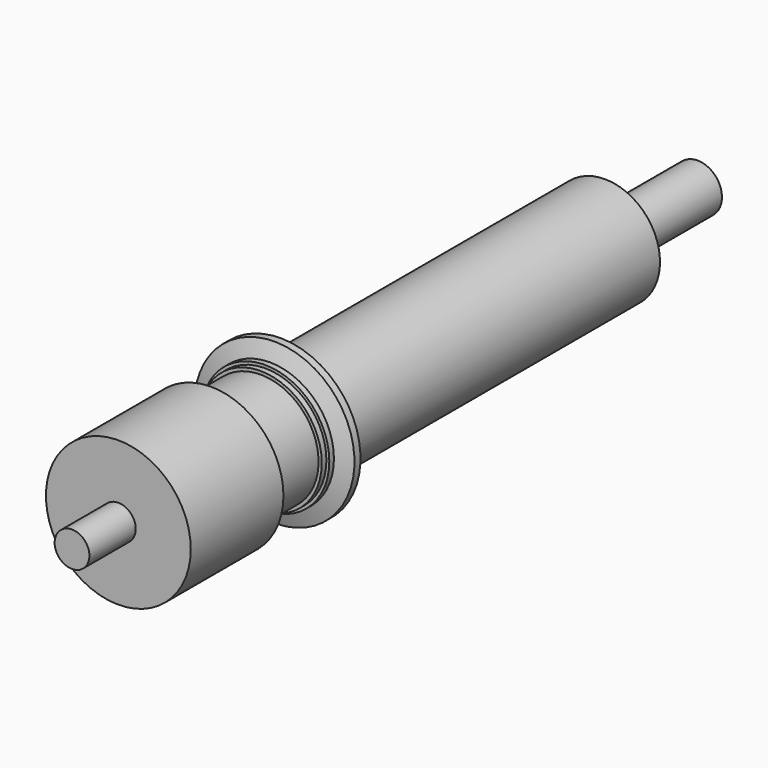
from build123d import *

# Parameters (mm, degrees)
F1_R      = 6.35
F2_DEPTH  = 5.842
F3_R      = 6.35
F4_DEPTH  = 2.54
F5_R      = 31.75
F5_R_2    = 6.35
F6_DEPTH  = 50.8
F7_R      = 7.62
F7_R_2    = 6.35
F8_DEPTH  = 25.4
F9_R      = 6.35
F12_R     = 25.4
F13_DEPTH = 38.1
F14_R     = 35.052
F14_R_2   = 22.86
F15_DEPTH = 5.842
F16_SIZE2 = 6.9785926454
F16_SIZE  = 2.54
F17_R     = 28.0734073546
F17_R_2   = 24.13
F18_DEPTH = 2.54
F19_R     = 26.8034073546
F19_R_2   = 24.13
F20_DEPTH = 2.54
F21_R     = 24.1300254
F21_R_2   = 10.16
F22_DEPTH = 177.8
F23_R     = 10.668
F23_R_2   = 7.874
F24_DEPTH = 50.8


with BuildPart() as f2:
    # F1 (on Front) → F2 (new body)
    with BuildSketch(Plane.XZ):
        Circle(F1_R)
    extrude(amount=-F2_DEPTH)

    # F3 (on face) → F4 (join)
    with BuildSketch(Plane(origin=(0, 5.842, 0), x_dir=(-1, 0, 0), z_dir=(0, 1, 0))):
        Circle(F3_R)
    extrude(amount=F4_DEPTH)

    # F5 (on face) → F6 (join)
    with BuildSketch(Plane.XZ):
        Circle(F5_R)
        Circle(F5_R_2, mode=Mode.SUBTRACT)
    extrude(amount=F6_DEPTH)

    # F7 (on face) → F8 (join)
    with BuildSketch(Plane.XZ.offset(50.8)):
        Circle(F7_R)
        Circle(F7_R_2, mode=Mode.SUBTRACT)
    extrude(amount=F8_DEPTH)

    # F11: sweep along a path in F10
    with BuildLine(Plane.YZ) as f11_path:
        Line((-76.2, 0), (-25.4, 0))
    # F9 (on face) → F11 (sweep)
    with BuildSketch(Plane.XZ.offset(76.2)):
        Circle(F9_R)
    sweep(path=f11_path.line)

    # F12 (on face) → F13 (join)
    with BuildSketch(Plane(origin=(0, 0, 0), x_dir=(-1, 0, 0), z_dir=(0, 1, 0))):
        Circle(F12_R)
    extrude(amount=F13_DEPTH)

    # F14 (on face) → F15 (join)
    with BuildSketch(Plane(origin=(0, 38.1, 0), x_dir=(-1, 0, 0), z_dir=(0, 1, 0))):
        Circle(F14_R)
        Circle(F14_R_2, mode=Mode.SUBTRACT)
    extrude(amount=-F15_DEPTH)

    # F16
    f16_edges = [f2.edges().sort_by_distance(p)[0] for p in [
        (35.052, 32.258, 0),
    ]]
    f16_side = f2.faces().sort_by_distance((35.052, 35.179, 0))[0]
    chamfer(f16_edges, length=F16_SIZE, length2=F16_SIZE2, reference=f16_side)

    # F17 (on face) → F18 (join)
    with BuildSketch(Plane.XZ.offset(-32.258)):
        Circle(F17_R)
        Circle(F17_R_2, mode=Mode.SUBTRACT)
    extrude(amount=F18_DEPTH)

    # F19 (on face) → F20 (join)
    with BuildSketch(Plane.XZ.offset(-29.718)):
        Circle(F19_R)
        Circle(F19_R_2, mode=Mode.SUBTRACT)
    extrude(amount=F20_DEPTH)

    # F21 (on face) → F22 (join)
    with BuildSketch(Plane(origin=(0, 38.1, 0), x_dir=(-1, 0, 0), z_dir=(0, 1, 0))):
        Circle(F21_R)
        Circle(F21_R_2, mode=Mode.SUBTRACT)
    extrude(amount=F22_DEPTH)

    # F23 (on face) → F24 (join)
    with BuildSketch(Plane(origin=(0, 215.9, 0), x_dir=(-1, 0, 0), z_dir=(0, 1, 0))):
        Circle(F23_R)
        Circle(F23_R_2, mode=Mode.SUBTRACT)
    extrude(amount=F24_DEPTH)


solid = f2.part
